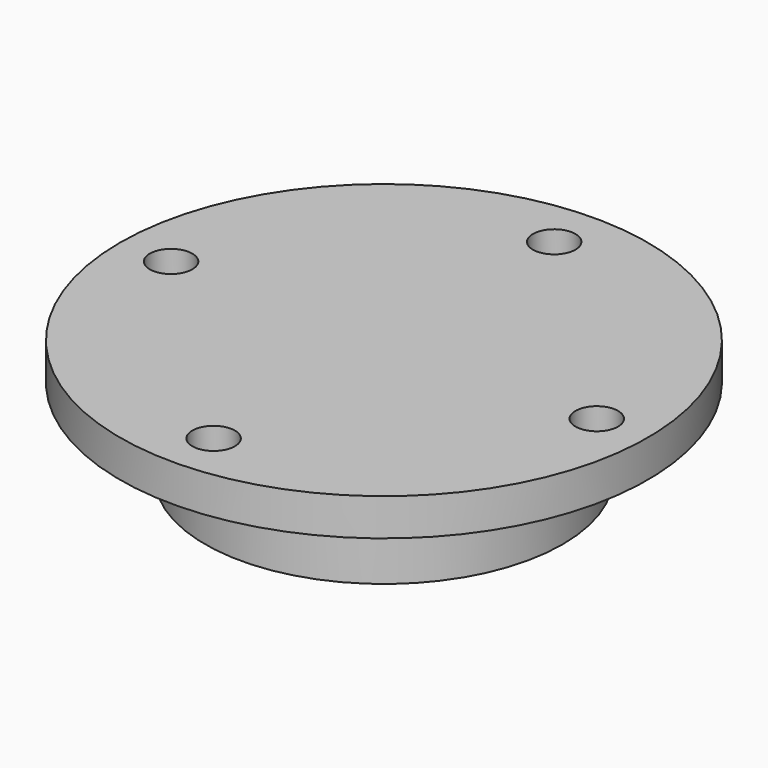
from build123d import *

# Parameters (mm, degrees)
F2_R     = 3.175
F3_DEPTH = 5.54365


with BuildPart() as f1:
    # F0 (on Front) → F1 (revolve)
    with BuildSketch(Plane.XZ):
        Polygon((0, 8.62508), (0, 18.142857), (-39.37, 18.142857), (-39.37, 12.599207), (-26.67, 12.599207), (-26.67, 4.938889), (-26.67, 0), (-13.97, 0), (-13.97, 8.62508), (-7.62, 8.62508), (-7.62, 4.81508), (-5.08, 4.81508), (-5.08, 8.62508), align=None)
    revolve(axis=Axis((0, 0, 21.598651), (0, 0, -1)))

    # F2 (on face) → F3 (cut, through all)
    with BuildSketch(Plane.XY.offset(18.142857)):
        with Locations((0, 31.75)):
            Circle(F2_R)
        with Locations((31.75, 0)):
            Circle(F2_R)
        with Locations((0, -31.75)):
            Circle(F2_R)
        with Locations((-31.75, 0)):
            Circle(F2_R)
    extrude(amount=-F3_DEPTH, mode=Mode.SUBTRACT)


solid = f1.part
